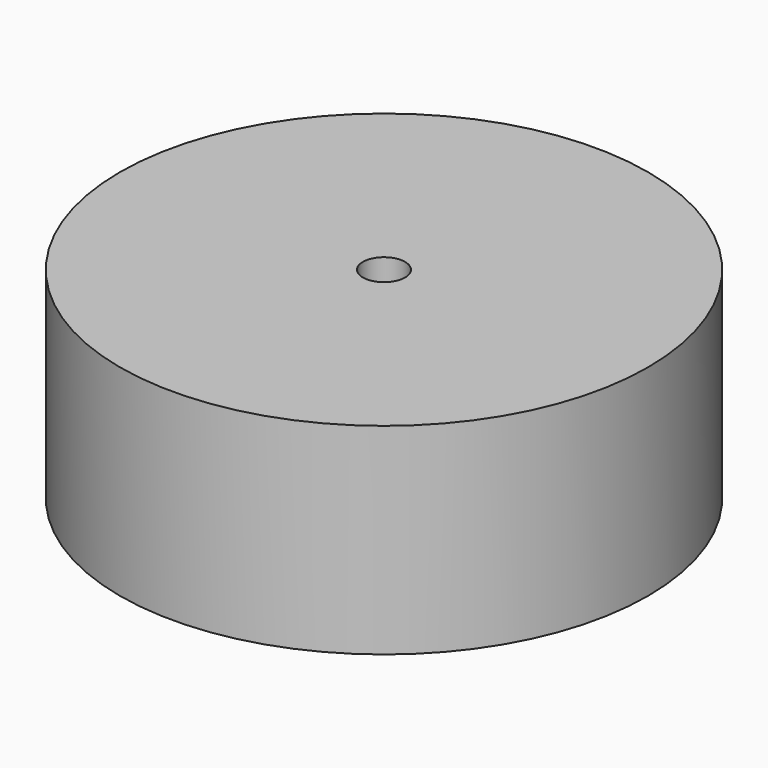
from build123d import *

# Parameters (mm, degrees)
F0_R     = 25
F0_R_2   = 10
F0_R_3   = 2
F1_DEPTH = 19.05
F2_DEPTH = 5


with BuildPart() as f1:
    # F0 (on Top) → F1 (new body)
    with BuildSketch(Plane.XY):
        Circle(F0_R)
        Circle(F0_R_2, mode=Mode.SUBTRACT)
        Circle(F0_R_2)
        Circle(F0_R_3, mode=Mode.SUBTRACT)
    extrude(amount=F1_DEPTH)

    # F0 (on Top) → F2 (cut)
    with BuildSketch(Plane.XY):
        Circle(F0_R_2)
        Circle(F0_R_3, mode=Mode.SUBTRACT)
    extrude(amount=F2_DEPTH, mode=Mode.SUBTRACT)


solid = f1.part
